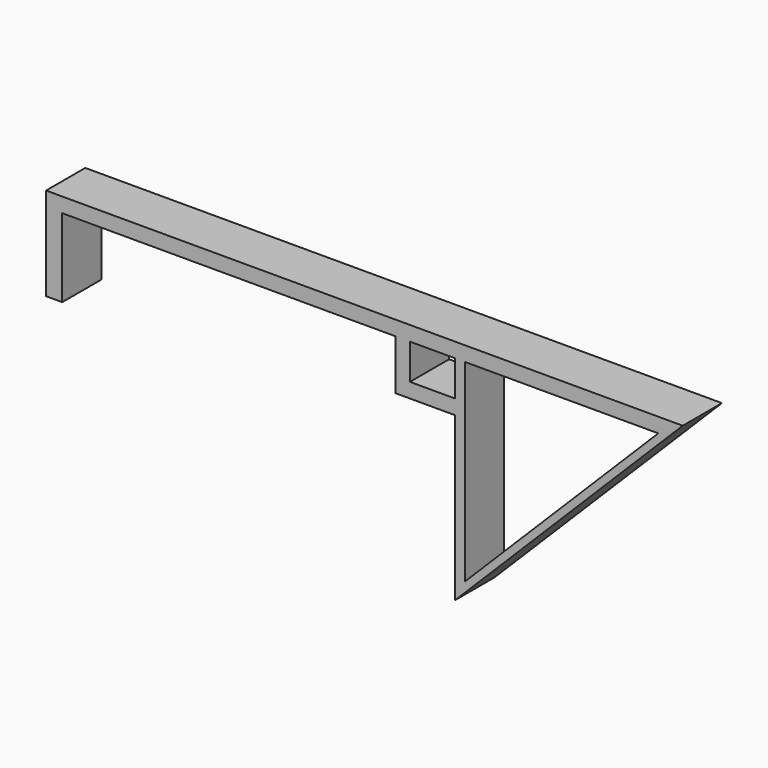
from build123d import *

# Parameters (mm, degrees)
F0_W     = 3
F0_H     = 7.232874
F0_H_2   = 3
F0_W_2   = 9.241484
F0_W_3   = 2
F1_DEPTH = 10


with BuildPart() as f1:
    # F0 (on Front) → F1 (new body)
    with BuildSketch(Plane.XZ):
        Polygon((-100.181801, 4.105811), (-100.181801, 20.105811), (-32.181801, 20.105811), (-29.181801, 20.105811), (-29.181801, 23.105811), (-103.483401, 23.105811), (-103.483401, 20.105811), (-103.483401, 4.105811), align=None)
        with Locations((-30.681801, 16.489374)):
            Rectangle(F0_W, F0_H)
        with Locations((-30.681801, 11.372937)):
            Rectangle(F0_W, F0_H_2)
        with Locations((-24.561059, 21.605811)):
            Rectangle(F0_W_2, F0_H_2)
        with Locations((-24.561059, 11.372937)):
            Rectangle(F0_W_2, F0_H_2)
        Polygon((-17.940317, 20.105811), (-19.940317, 20.105811), (-19.940317, 12.872937), (-19.940317, 9.872937), (-19.940317, -21.351104), (-17.940317, -19.351104), align=None)
        with Locations((-18.940317, 21.605811)):
            Rectangle(F0_W_3, F0_H_2)
        Polygon((-17.940317, 23.105811), (-17.940317, 20.105811), (21.516599, 20.105811), (24.516599, 23.105811), align=None)
        Polygon((21.516599, 20.105811), (-17.940317, -19.351104), (-19.940317, -21.351104), (-19.940317, -23.351104), (-14.518421, -17.929208), (23.516599, 20.105811), align=None)
        Polygon((24.516599, 23.105811), (21.516599, 20.105811), (23.516599, 20.105811), (26.516599, 23.105811), align=None)
    extrude(amount=F1_DEPTH)


solid = f1.part
